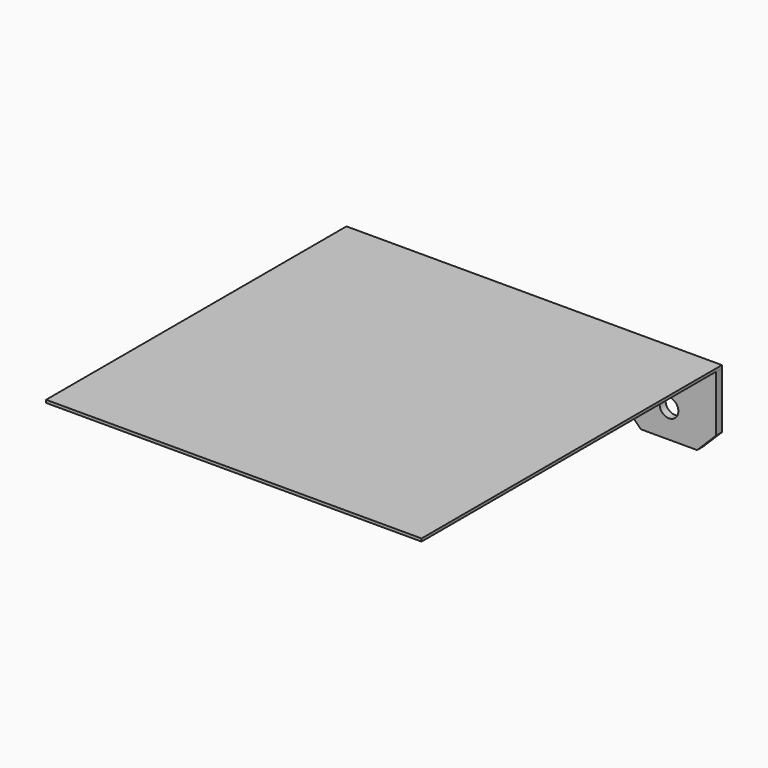
from build123d import *

# Parameters (mm, degrees)
F0_W     = 400
F0_H     = 400
F1_DEPTH = 3
F2_W     = 100
F2_H     = 8
F3_DEPTH = 80
F4_SIZE  = 20
F5_R     = 10
F6_DEPTH = 25
F7_SIZE  = 20


with BuildPart() as f1:
    # F0 (on Top) → F1 (new body)
    with BuildSketch(Plane.XY):
        Rectangle(F0_W, F0_H)
    extrude(amount=F1_DEPTH)


with BuildPart() as f3:
    # F2 (on face) → F3 (new body)
    with BuildSketch(Plane(origin=(0, 0, 0), x_dir=(1, 0, 0), z_dir=(0, 0, -1))):
        with Locations((150, -196)):
            Rectangle(F2_W, F2_H)
    extrude(amount=F3_DEPTH)

    # F4
    f4_edges = [f3.edges().sort_by_distance(p)[0] for p in [
        (200, 196, -80),
    ]]
    chamfer(f4_edges, length=F4_SIZE)

    # F5 (on face) → F6 (cut)
    with BuildSketch(Plane(origin=(0, 200, 0), x_dir=(-1, 0, 0), z_dir=(0, 1, 0))):
        with Locations((-150, -50)):
            Circle(F5_R)
    extrude(amount=-F6_DEPTH, mode=Mode.SUBTRACT)

    # F7
    f7_edges = [f3.edges().sort_by_distance(p)[0] for p in [
        (100, 196, -80),
    ]]
    chamfer(f7_edges, length=F7_SIZE)


solid = Compound([f1.part, f3.part])
